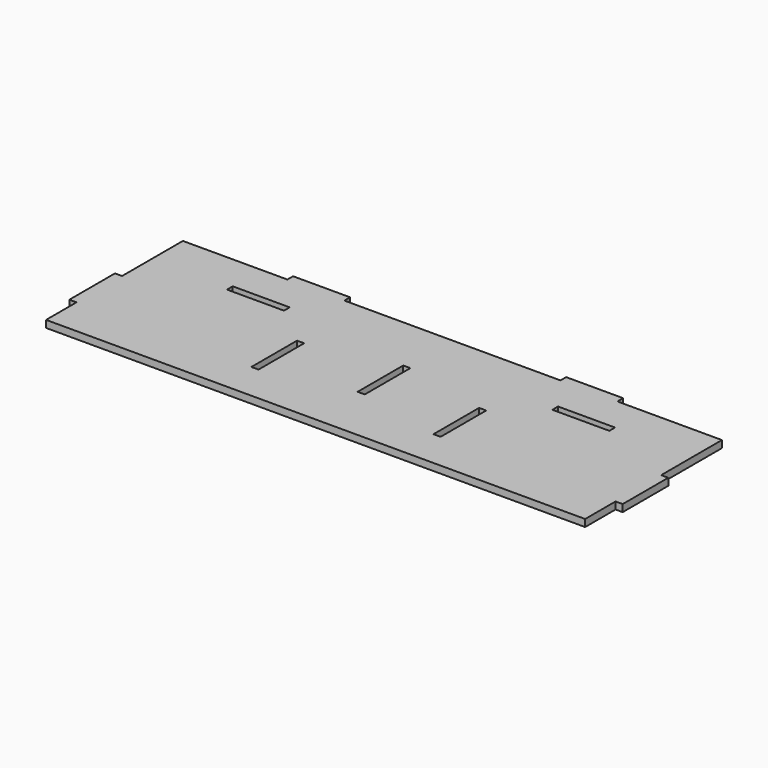
from build123d import *

# Parameters (mm, degrees)
F0_W     = 19.05
F0_H     = 152.4
F0_W_2   = 152.4
F0_H_2   = 19.05
F1_DEPTH = 19.05


with BuildPart() as f1:
    # F0 (on Top) → F1 (new body)
    with BuildSketch(Plane.XY):
        Polygon((-441.325, 0), (-720.725, 0), (-720.725, -203.2), (-720.725, -355.6), (-720.725, -457.2), (720.725, -457.2), (720.725, -355.6), (720.725, -203.2), (720.725, 0), (441.325, 0), (288.925, 0), (-288.925, 0), align=None)
        with Locations((-243.416667, -279.4)):
            Rectangle(F0_W, F0_H, mode=Mode.SUBTRACT)
        with Locations((243.416667, -279.4)):
            Rectangle(F0_W, F0_H, mode=Mode.SUBTRACT)
        with Locations((0, -228.6)):
            Rectangle(F0_W, F0_H, mode=Mode.SUBTRACT)
        with Locations((-434.975, -104.775)):
            Rectangle(F0_W_2, F0_H_2, mode=Mode.SUBTRACT)
        with Locations((434.975, -104.775)):
            Rectangle(F0_W_2, F0_H_2, mode=Mode.SUBTRACT)
        with Locations((-365.125, 9.525)):
            Rectangle(F0_W_2, F0_H_2)
        with Locations((365.125, 9.525)):
            Rectangle(F0_W_2, F0_H_2)
        with Locations((730.25, -279.4)):
            Rectangle(F0_W, F0_H)
        with Locations((-730.25, -279.4)):
            Rectangle(F0_W, F0_H)
    extrude(amount=F1_DEPTH)


solid = f1.part
